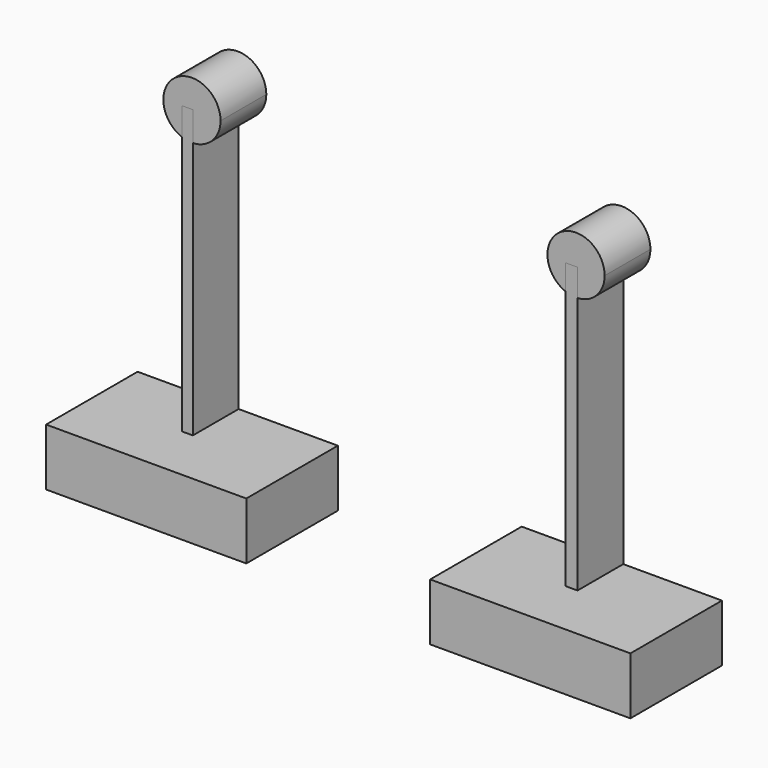
from build123d import *

# Parameters (mm, degrees)
F1_DEPTH = 25.4
F2_DEPTH = 12.7
F3_W     = 2.646983
F3_H     = 63.667882
F3_W_2   = 2.354983
F3_H_2   = 63.953007
F4_DEPTH = 12.7


with BuildPart() as f1:
    # F0 (on Front) → F1 (new body)
    with BuildSketch(Plane.XZ):
        Polygon((-47.180578, -21.661135), (-69.405578, -21.661135), (-69.405578, -34.361135), (-24.955578, -34.361135), (-24.955578, -21.661135), align=None)
        Polygon((38.090863, -24.201136), (15.865863, -24.201136), (15.865863, -36.901136), (60.315863, -36.901136), (60.315863, -24.201136), align=None)
    extrude(amount=F1_DEPTH)


with BuildPart() as f2:
    # F0 (on Front) → F2 (new body)
    with BuildSketch(Plane.XZ):
        with BuildLine():
            ThreePointArc((44.440863, 39.298864), (33.600735, 43.788992), (38.090863, 32.948864))
            ThreePointArc((38.090863, 32.948864), (42.580991, 34.808736), (44.440863, 39.298864))
        make_face()
        with BuildLine():
            ThreePointArc((-40.830578, 41.838865), (-51.670706, 46.328993), (-47.180578, 35.488865))
            ThreePointArc((-47.180578, 35.488865), (-42.69045, 37.348737), (-40.830578, 41.838865))
        make_face()
    extrude(amount=F2_DEPTH)


with BuildPart() as f4:
    # F3 (on Front) → F4 (new body)
    with BuildSketch(Plane.XZ):
        with Locations((37.087604, 7.156657)):
            Rectangle(F3_W, F3_H)
        with Locations((-48.159053, 10.027694)):
            Rectangle(F3_W_2, F3_H_2)
    extrude(amount=F4_DEPTH)


solid = Compound([f1.part, f2.part, f4.part])
